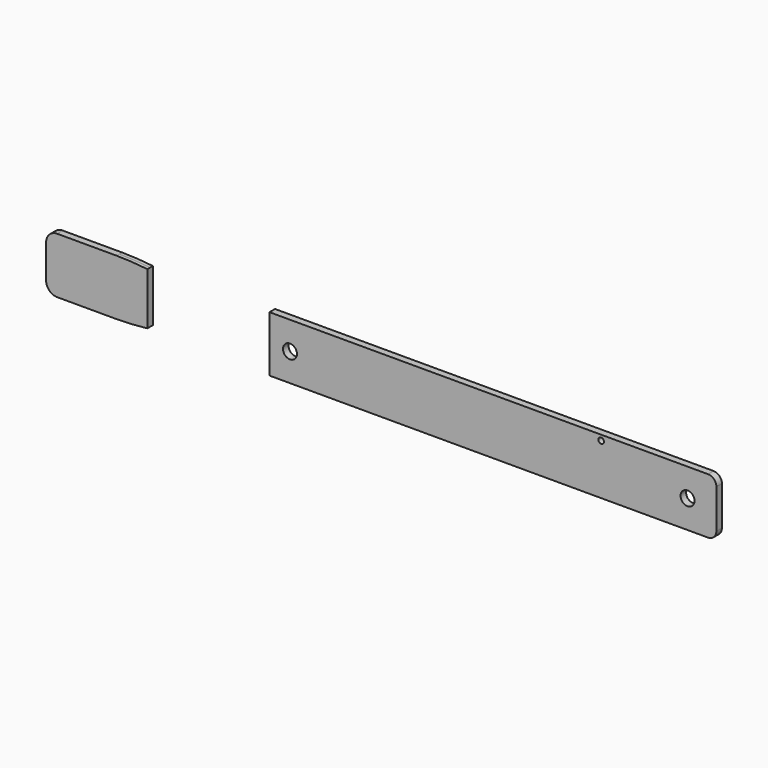
from build123d import *

# Parameters (mm, degrees)
F1_DEPTH = 1.5748
F3_DEPTH = 3.175
F4_R     = 3.175
F4_R_2   = 1.27
F5_DEPTH = 3.175
F6_DEPTH = 1.5748


with BuildPart() as f1:
    # F0 (on Front) → F1 (new body, symmetric)
    with BuildSketch(Plane.XZ):
        with BuildLine():
            ThreePointArc((152.4, 8.89), (151.284077, 11.584077), (148.59, 12.7))
            Line((148.59, 12.7), (-71.287103, 12.7))
            add(Edge.make_bspline(
                [(-106.3498, 11.856413), (-91.804659, 10.300854), (-79.577204, 7.582657), (-71.287103, 12.7)],
                knots=[11.492972, 11.492972, 11.492972, 11.492972, 49.028687, 49.028687, 49.028687, 49.028687], degree=3))
            Line((-106.3498, 11.856413), (-106.3498, -11.856413))
            add(Edge.make_bspline(
                [(-106.3498, -11.856413), (-91.804659, -10.300854), (-79.577204, -7.582657), (-71.287103, -12.7)],
                knots=[11.492972, 11.492972, 11.492972, 11.492972, 49.028687, 49.028687, 49.028687, 49.028687], degree=3))
            Line((-71.287103, -12.7), (148.59, -12.7))
            ThreePointArc((148.59, -12.7), (151.284077, -11.584077), (152.4, -8.89))
            Line((152.4, -8.89), (152.4, 8.89))
        make_face()
    extrude(amount=F1_DEPTH, both=True)

    # F2 (on face) → F3 (cut)
    with BuildSketch(Plane.XZ.offset(1.5748)):
        with BuildLine():
            Line((-50.8, -12.7), (-50.8, 12.7))
            Line((-50.8, 12.7), (-71.287103, 12.7))
            add(Edge.make_bspline(
                [(-106.3498, 11.856413), (-91.804659, 10.300854), (-79.577204, 7.582657), (-71.287103, 12.7)],
                knots=[11.492972, 11.492972, 11.492972, 11.492972, 49.028687, 49.028687, 49.028687, 49.028687], degree=3))
            Line((-106.3498, 11.856413), (-106.3498, -11.856413))
            add(Edge.make_bspline(
                [(-106.3498, -11.856413), (-91.804659, -10.300854), (-79.577204, -7.582657), (-71.287103, -12.7)],
                knots=[11.492972, 11.492972, 11.492972, 11.492972, 49.028687, 49.028687, 49.028687, 49.028687], degree=3))
            Line((-71.287103, -12.7), (-50.8, -12.7))
        make_face()
    extrude(amount=-F3_DEPTH, mode=Mode.SUBTRACT)

    # F4 (on face) → F5 (cut)
    with BuildSketch(Plane.XZ.offset(1.5748)):
        with Locations((-41.493278, 0)):
            Circle(F4_R)
        with Locations((139.283278, 0)):
            Circle(F4_R)
        with Locations((100.0252, 10.3124)):
            Circle(F4_R_2)
    extrude(amount=-F5_DEPTH, mode=Mode.SUBTRACT)


with BuildPart() as f6:
    # F0 (on Front) → F6 (new body, symmetric)
    with BuildSketch(Plane.XZ):
        with BuildLine():
            Line((-106.3498, -11.856413), (-106.3498, 11.856413))
            add(Edge.make_bspline(
                [(-120.31579, 12.7), (-115.47417, 12.7), (-110.803343, 12.332706), (-106.3498, 11.856413)],
                knots=[0, 0, 0, 0, 11.492972, 11.492972, 11.492972, 11.492972], degree=3))
            Line((-120.31579, 12.7), (-147.32, 12.7))
            ThreePointArc((-147.32, 12.7), (-150.912102, 11.212102), (-152.4, 7.62))
            Line((-152.4, 7.62), (-152.4, -7.62))
            ThreePointArc((-152.4, -7.62), (-150.912102, -11.212102), (-147.32, -12.7))
            Line((-147.32, -12.7), (-120.31579, -12.7))
            add(Edge.make_bspline(
                [(-120.31579, -12.7), (-115.47417, -12.7), (-110.803343, -12.332706), (-106.3498, -11.856413)],
                knots=[0, 0, 0, 0, 11.492972, 11.492972, 11.492972, 11.492972], degree=3))
        make_face()
    extrude(amount=F6_DEPTH, both=True)


solid = Compound([f1.part, f6.part])
